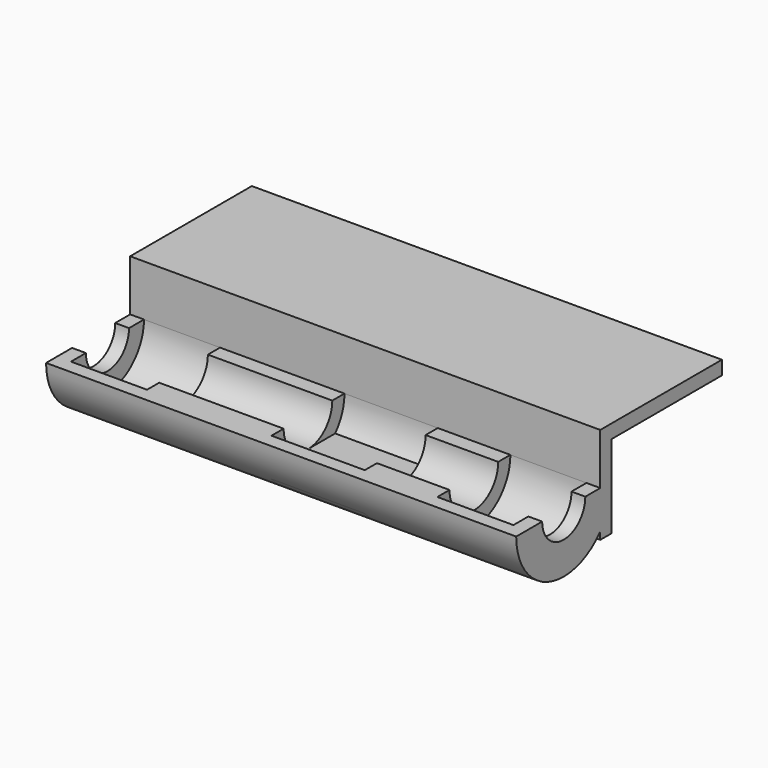
from build123d import *

# Parameters (mm, degrees)
F0_W      = 340
F0_H      = 70
F1_DEPTH  = 10
F2_W      = 340
F2_H      = 100
F3_DEPTH  = 10
F7_ANGLE  = 180
F8_R      = 19.5
F9_DEPTH  = 170.001
F10_DEPTH = 170.001
F12_W     = 67.5
F12_H     = 66
F13_DEPTH = 25
F15_DEPTH = 222.501


with BuildPart() as f1:
    # F0 (on Front) → F1 (new body)
    with BuildSketch(Plane.XZ):
        with Locations((0, -25)):
            Rectangle(F0_W, F0_H)
    extrude(amount=F1_DEPTH)

    # F2 (on Top) → F3 (join)
    with BuildSketch(Plane.XY):
        with Locations((0, 50)):
            Rectangle(F2_W, F2_H)
    extrude(amount=F3_DEPTH)

    # F5 (on offset) → F7 (revolve)
    with BuildSketch(Plane.XY.offset(-27)):
        Polygon((170, 0), (-170, 0), (-170, -43), (-160, -43), (-160, -10), (-105, -10), (-105, -21), (-15, -21), (-15, -10), (52.5, -10), (52.5, -21), (105, -21), (105, -10), (160, -10), (160, -43), (170, -43), align=None)
    revolve(axis=Axis((0, -43, -27), (-1, 0, 0)), revolution_arc=F7_ANGLE)

    # F8 (on Right) → F9 (cut, through all)
    with BuildSketch(Plane.YZ):
        with Locations((-43, -27)):
            Circle(F8_R)
    extrude(amount=F9_DEPTH, mode=Mode.SUBTRACT)

    # F8 (on Right) → F10 (cut, through all)
    with BuildSketch(Plane.YZ):
        with Locations((-43, -27)):
            Circle(F8_R)
    extrude(amount=-F10_DEPTH, mode=Mode.SUBTRACT)

    # F12 (on offset) → F13 (join)
    with BuildSketch(Plane.XY.offset(-49)):
        with Locations((18.75, -43)):
            Rectangle(F12_W, F12_H)
    extrude(amount=-F13_DEPTH)

    # F14 (on face) → F15 (cut, through all)
    with BuildSketch(Plane.YZ.offset(52.5)):
        with BuildLine():
            ThreePointArc((-10, -54.568098), (-43, -70), (-76, -54.568098))
            Line((-76, -54.568098), (-76, -74))
            Line((-76, -74), (-10, -74))
            Line((-10, -74), (-10, -54.568098))
        make_face()
    extrude(amount=-F15_DEPTH, mode=Mode.SUBTRACT)


solid = f1.part
